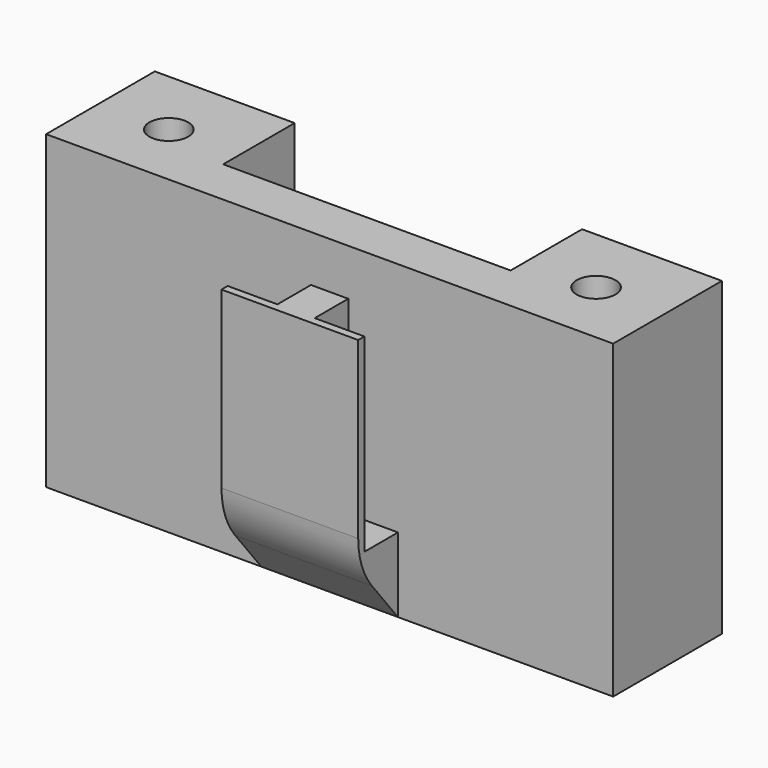
from build123d import *

# Parameters (mm, degrees)
F1_DEPTH = 10
F2_W     = 2.4
F2_H     = 12.2
F2_W_2   = 3.2
F2_H_2   = 1.8
F3_DEPTH = 2.7
F4_W     = 3.2
F4_H     = 12.2
F5_DEPTH = 0.5
F6_DEPTH = 3
F7_SIZE2 = 3.2
F7_SIZE  = 4
F8_R     = 5


with BuildPart() as f1:
    # F0 (on Top) → F1 (new body, symmetric)
    with BuildSketch(Plane.XY):
        Polygon((-9.25, -1.25), (-13.75, -1.25), (-18.25, -1.25), (-18.25, -4.25), (0, -4.25), (18.25, -4.25), (18.25, -1.25), (13.75, -1.25), (9.25, -1.25), (0, -1.25), align=None)
        Polygon((9.25, 4.5), (9.25, -1.25), (13.75, -1.25), (18.25, -1.25), (18.25, 4.5), align=None)
        with BuildLine():
            ThreePointArc((15, 0), (14.6338834765, -0.8838834765), (13.75, -1.25))
            ThreePointArc((13.75, -1.25), (12.8661165235, 0.8838834765), (15, 0))
        make_face(mode=Mode.SUBTRACT)
        Polygon((-18.25, -1.25), (-13.75, -1.25), (-9.25, -1.25), (-9.25, 4.5), (-18.25, 4.5), align=None)
        with BuildLine():
            ThreePointArc((-13.75, -1.25), (-14.6338834765, 0.8838834765), (-12.5, 0))
            ThreePointArc((-12.5, 0), (-12.8661165235, -0.8838834765), (-13.75, -1.25))
        make_face(mode=Mode.SUBTRACT)
    extrude(amount=F1_DEPTH, both=True)

    # F2 (on face) → F3 (join)
    with BuildSketch(Plane.XZ.offset(4.25)):
        with Locations((0, 0.9)):
            Rectangle(F2_W, F2_H)
        with Locations((-2.8, -6.1)):
            Rectangle(F2_W_2, F2_H_2)
        with Locations((0, -6.1)):
            Rectangle(F2_W, F2_H_2)
        with Locations((2.8, -6.1)):
            Rectangle(F2_W_2, F2_H_2)
    extrude(amount=F3_DEPTH)

    # F4 (on face) → F5 (join)
    with BuildSketch(Plane.XZ.offset(6.95)):
        with Locations((2.8, 0.9)):
            Rectangle(F4_W, F4_H)
        Polygon((-4.4, -5.2), (-4.4, -7), (4.4, -7), (4.4, -5.2), (1.2, -5.2), (1.2, 7), (-1.2, 7), (-1.2, -5.2), align=None)
        with Locations((-2.8, 0.9)):
            Rectangle(F4_W, F4_H)
    extrude(amount=F5_DEPTH)

    # F6 (add, through all): a face of the model
    f6_faces = [f1.faces().sort_by_distance(p)[0] for p in [
        (0, -5.85, -7),
    ]]
    extrude(f6_faces, amount=F6_DEPTH)

    # F7
    f7_edges = [f1.edges().sort_by_distance(p)[0] for p in [
        (0, -7.45, -10),
    ]]
    f7_side = f1.faces().sort_by_distance((0, -7.45, -1.5))[0]
    chamfer(f7_edges, length=F7_SIZE, length2=F7_SIZE2, reference=f7_side)

    # F8
    f8_edges = [f1.edges().sort_by_distance(p)[0] for p in [
        (0, -7.45, -6),
    ]]
    fillet(f8_edges, radius=F8_R)


solid = f1.part
